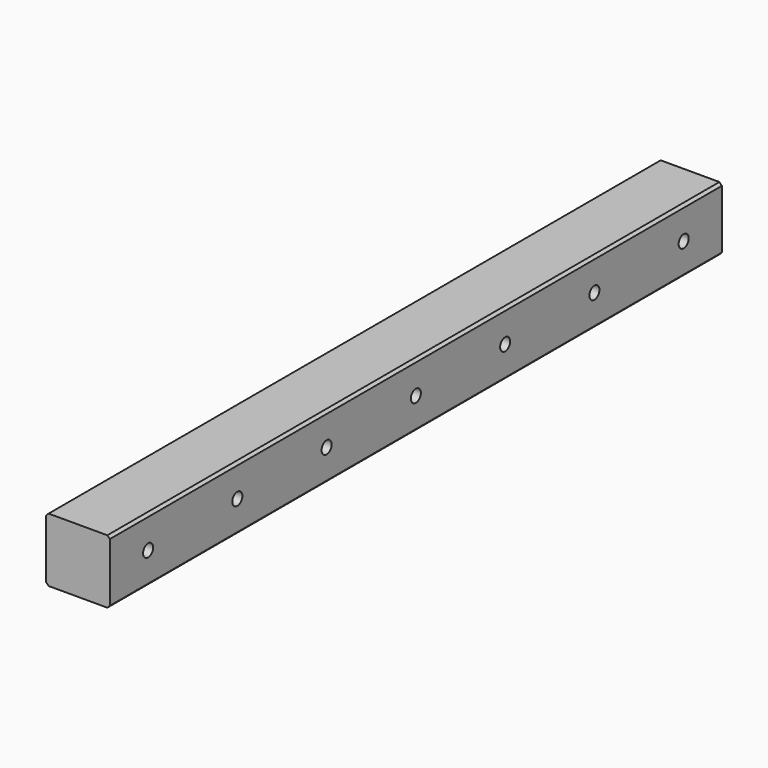
from build123d import *

# Parameters (mm, degrees)
F0_W     = 25.4
F0_H     = 25.4
F1_DEPTH = 304.8
F2_SIZE  = 1
F4_D     = 5


with BuildPart() as f1:
    # F0 (on Front) → F1 (new body)
    with BuildSketch(Plane.XZ):
        Rectangle(F0_W, F0_H)
    extrude(amount=F1_DEPTH)

    # F2
    f2_edges = [f1.edges().sort_by_distance(p)[0] for p in [
        (12.7, -152.4, 12.7),
        (12.7, -152.4, -12.7),
        (-12.7, -152.4, 12.7),
        (-12.7, -152.4, -12.7),
    ]]
    chamfer(f2_edges, length=F2_SIZE)

    # F4 (through all)
    with Locations(Plane.YZ.offset(12.7)):
        with Locations((-285.75, 0), (-241.3, 0), (-196.85, 0), (-152.4, 0), (-107.95, 0), (-63.5, 0), (-19.05, 0)):
            Hole(F4_D / 2)


solid = f1.part
